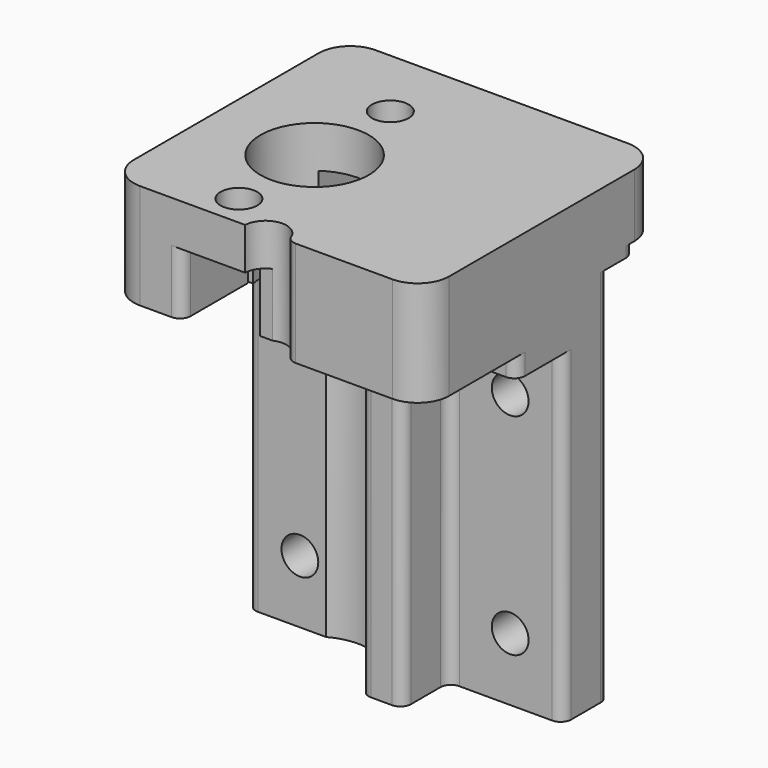
from build123d import *

# Parameters (mm, degrees)
PAD001_DEPTH      = 15
PAD001_DEPTH_BACK = 15
SKETCH014_W       = 12
SKETCH014_H       = 6
POCKET_DEPTH      = 28.001
SKETCH013_R       = 1.75
POCKET001_DEPTH   = 21
SKETCH012_R       = 5.15
POCKET002_DEPTH   = 43.001
SKETCH007_R       = 1.75
POCKET003_DEPTH   = 17.001
SKETCH008_W       = 6.407674
SKETCH008_H       = 16
SKETCH008_W_2     = 6.93002
SKETCH008_H_2     = 13.41794
POCKET004_DEPTH   = 31
SKETCH018_R       = 2
POCKET005_DEPTH   = 55.001
SKETCH020_W       = 2.261289
SKETCH020_H       = 2.342064
POCKET006_DEPTH   = 6
SKETCH015_W       = 50.47
SKETCH015_H       = 40
POCKET007_DEPTH   = 3
CHAMFER_SIZE      = 2
CHAMFER001_SIZE   = 2
CHAMFER002_SIZE   = 1
FILLET_R          = 3
FILLET001_R       = 1
FILLET002_R       = 1
FILLET003_R       = 1
FILLET004_R       = 1
FILLET005_R       = 1
FILLET006_R       = 1
FILLET007_R       = 1
FILLET008_R       = 1
FILLET009_R       = 1
FILLET010_R       = 1
FILLET011_R       = 1
FILLET012_R       = 1
FILLET013_R       = 1


with BuildPart() as part:
    # Sketch005 → Pad001 (new body, two sides)
    with BuildSketch(Plane.YZ) as pad001_sk:
        Polygon((0, -20), (0, 17), (3, 17), (3, 23), (-25, 23), (-25, 13), (-14, 13), (-14, -20), align=None)
    extrude(amount=PAD001_DEPTH)
    extrude(pad001_sk.sketch, amount=-PAD001_DEPTH_BACK)

    # Sketch014 (on Face5 of Pad001) → Pocket (cut, through all)
    with BuildSketch(Plane(origin=(0, -25, 0), x_dir=(0, 0, -1), z_dir=(0, -1, 0))):
        with Locations((-13, -5)):
            Rectangle(SKETCH014_W, SKETCH014_H)
    extrude(amount=-POCKET_DEPTH, mode=Mode.SUBTRACT)

    # Sketch013 → Pocket001 (cut)
    with BuildSketch(Plane(origin=(0, 0, 35), x_dir=(0, -1, 0), z_dir=(0, 0, 1))):
        with Locations((4, -5)):
            Circle(SKETCH013_R)
        with Locations((22, -5)):
            Circle(SKETCH013_R)
    extrude(amount=-POCKET001_DEPTH, mode=Mode.SUBTRACT)

    # Sketch012 (on Face4 of Pad001) → Pocket002 (cut, through all)
    with BuildSketch(Plane(origin=(0, 0, 23), x_dir=(0, -1, 0), z_dir=(0, 0, 1))):
        with Locations((13, -5)):
            Circle(SKETCH012_R)
    extrude(amount=-POCKET002_DEPTH, mode=Mode.SUBTRACT)

    # Sketch007 → Pocket003 (cut, through all)
    with BuildSketch(Plane(origin=(0, -14, 0), x_dir=(0, 0, -1), z_dir=(0, -1, 0))):
        with Locations((-6, 10)):
            Circle(SKETCH007_R)
        with Locations((14, 10)):
            Circle(SKETCH007_R)
        with Locations((-6, -10)):
            Circle(SKETCH007_R)
        with Locations((14, -10)):
            Circle(SKETCH007_R)
    extrude(amount=-POCKET003_DEPTH, mode=Mode.SUBTRACT)

    # Sketch008 → Pocket004 (cut)
    with BuildSketch(Plane.YX.offset(20)):
        with Locations((-11.703837, -8)):
            Rectangle(SKETCH008_W, SKETCH008_H)
        with Locations((-11.96501, 10.872729)):
            Rectangle(SKETCH008_W_2, SKETCH008_H_2)
    extrude(amount=-POCKET004_DEPTH, mode=Mode.SUBTRACT)

    # Sketch018 → Pocket005 (cut, through all)
    with BuildSketch(Plane(origin=(0, 0, 35), x_dir=(0, -1, 0), z_dir=(0, 0, 1))):
        with Locations((25.089622, 0)):
            Circle(SKETCH018_R)
    extrude(amount=-POCKET005_DEPTH, mode=Mode.SUBTRACT)

    # Sketch020 (on Face29 of Pocket005) → Pocket006 (cut)
    with BuildSketch(Plane.YX.offset(-13)):
        with Locations((-24.390742, -1.171032)):
            Rectangle(SKETCH020_W, SKETCH020_H)
    extrude(amount=-POCKET006_DEPTH, mode=Mode.SUBTRACT)

    # Sketch015 → Pocket007 (cut)
    with BuildSketch(Plane.ZX):
        with Locations((-9.235, 0)):
            Rectangle(SKETCH015_W, SKETCH015_H)
    extrude(amount=-POCKET007_DEPTH, mode=Mode.SUBTRACT)

    # Chamfer
    chamfer_edges = [part.edges().sort_by_distance(p)[0] for p in [
        (-8, -5.75, 7),
    ]]
    chamfer(chamfer_edges, length=CHAMFER_SIZE)

    # Chamfer001
    chamfer001_edges = [part.edges().sort_by_distance(p)[0] for p in [
        (-2, -5.75, 7),
    ]]
    chamfer(chamfer001_edges, length=CHAMFER001_SIZE)

    # Chamfer002
    chamfer002_edges = [part.edges().sort_by_distance(p)[0] for p in [
        (-3, -3, 8),
        (-5, -3, 7),
        (-7, -3, 8),
    ]]
    chamfer(chamfer002_edges, length=CHAMFER002_SIZE)

    # Fillet
    fillet_edges = [part.edges().sort_by_distance(p)[0] for p in [
        (-15, -25, 18),
        (15, -25, 18),
        (-15, 3, 20),
        (15, 3, 20),
    ]]
    fillet(fillet_edges, radius=FILLET_R)

    # Fillet001
    fillet001_edges = [part.edges().sort_by_distance(p)[0] for p in [
        (-15, -8.5, -4.5),
        (4.163759, -14, -4.5),
    ]]
    fillet(fillet001_edges, radius=FILLET001_R)

    # Fillet002
    fillet002_edges = [part.edges().sort_by_distance(p)[0] for p in [
        (0.05198, -14, -3.5),
    ]]
    fillet(fillet002_edges, radius=FILLET002_R)

    # Fillet003
    fillet003_edges = [part.edges().sort_by_distance(p)[0] for p in [
        (15, -14, 12),
        (15, -8.5, -4.5),
    ]]
    fillet(fillet003_edges, radius=FILLET003_R)

    # Fillet004
    fillet004_edges = [part.edges().sort_by_distance(p)[0] for p in [
        (-8, -25, 16),
    ]]
    fillet(fillet004_edges, radius=FILLET004_R)

    # Fillet005
    fillet005_edges = [part.edges().sort_by_distance(p)[0] for p in [
        (-15, -14, 12),
    ]]
    fillet(fillet005_edges, radius=FILLET005_R)

    # Fillet006
    fillet006_edges = [part.edges().sort_by_distance(p)[0] for p in [
        (0, -8.5, -4.5),
    ]]
    fillet(fillet006_edges, radius=FILLET006_R)

    # Fillet007
    fillet007_edges = [part.edges().sort_by_distance(p)[0] for p in [
        (4.163759, -8.5, -4.5),
    ]]
    fillet(fillet007_edges, radius=FILLET007_R)

    # Fillet008
    fillet008_edges = [part.edges().sort_by_distance(p)[0] for p in [
        (-15, -3, -2),
        (15, -3, -2),
    ]]
    fillet(fillet008_edges, radius=FILLET008_R)

    # Fillet009
    fillet009_edges = [part.edges().sort_by_distance(p)[0] for p in [
        (-8, 3, 18),
        (-2, 3, 18),
    ]]
    fillet(fillet009_edges, radius=FILLET009_R)

    # Fillet010
    fillet010_edges = [part.edges().sort_by_distance(p)[0] for p in [
        (-2, 0, 16.5),
        (-8, 0, 16.5),
    ]]
    fillet(fillet010_edges, radius=FILLET010_R)

    # Fillet011
    fillet011_edges = [part.edges().sort_by_distance(p)[0] for p in [
        (-15, 0, 16.5),
    ]]
    fillet(fillet011_edges, radius=FILLET011_R)

    # Fillet012
    fillet012_edges = [part.edges().sort_by_distance(p)[0] for p in [
        (15, 0, 16.5),
    ]]
    fillet(fillet012_edges, radius=FILLET012_R)

    # Fillet013
    fillet013_edges = [part.edges().sort_by_distance(p)[0] for p in [
        (1.997991, -25, 18),
    ]]
    fillet(fillet013_edges, radius=FILLET013_R)


solid = part.part
